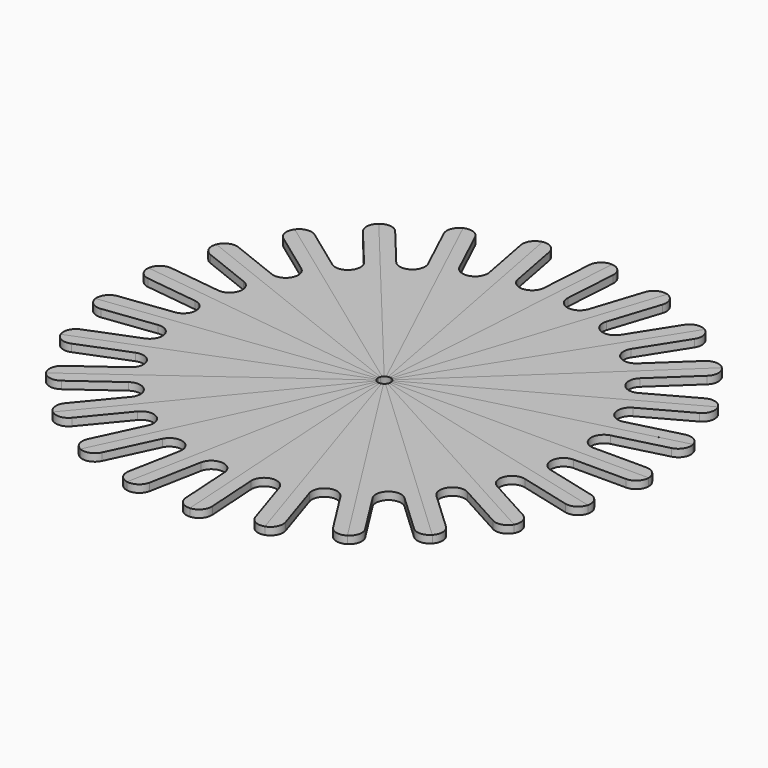
from build123d import *

# Parameters (mm, degrees)
EXTRUDE_DEPTH = 1.5
ARRAY_COUNT   = 25


with BuildPart() as part:
    # Sketch → Extrude (new body, symmetric)
    with BuildSketch(Plane.XY):
        with BuildLine():
            Line((2.5, 0), (105, 0))
            ThreePointArc((105, 0), (103.535534, 3.535534), (100, 5))
            Line((100, 5), (79.158201, 5))
            ThreePointArc((77.914751, 14.842916), (74.197627, 9.373334), (79.158201, 5))
            Line((98.101769, 20.026061), (77.914751, 14.842916))
            ThreePointArc((98.101769, 20.026061), (101.162029, 22.32377), (101.701235, 26.112426))
            Line((2.421461, 0.621713), (101.701235, 26.112426))
            ThreePointArc((2.5, 0), (2.480288, 0.313327), (2.421461, 0.621713))
        make_face()
    extrude(amount=EXTRUDE_DEPTH, both=True)

    # Array: part ×25 about axis
    array_axis = Axis((0, 0, 0), (0, 0, 1))


with BuildPart() as part_1:
    add(part.part)
    for i in range(1, ARRAY_COUNT):
        add(part.part.rotate(array_axis, i * 360 / ARRAY_COUNT))


solid = part_1.part
